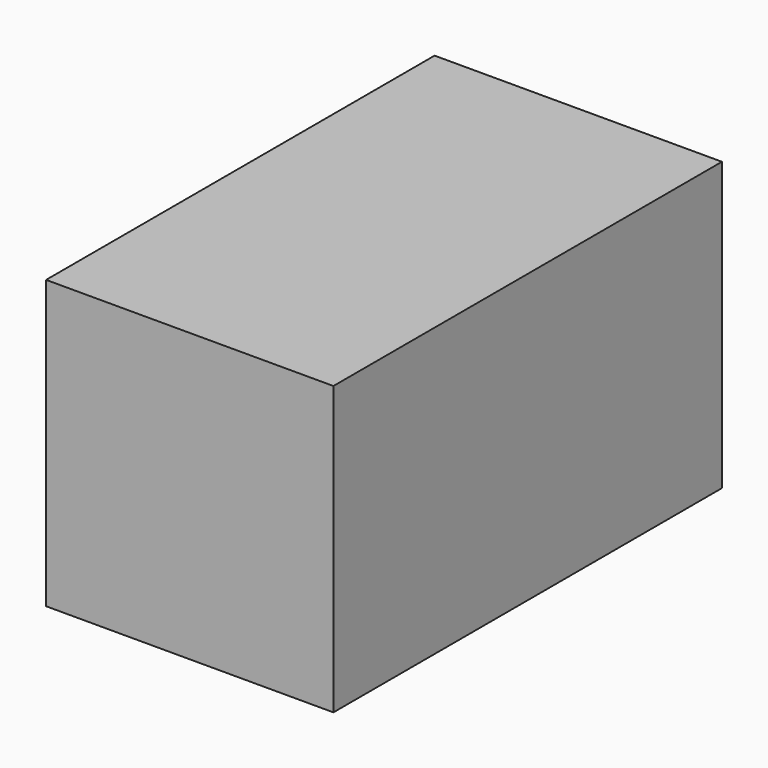
from build123d import *

# Parameters (mm, degrees)
F0_W     = 35.5
F0_H     = 35.5
F1_DEPTH = 60
F2_R     = 8
F3_DEPTH = 50
F5_DEPTH = 30


with BuildPart() as f1:
    # F0 (on Front) → F1 (new body)
    with BuildSketch(Plane.XZ):
        Rectangle(F0_W, F0_H)
    extrude(amount=F1_DEPTH)

    # F2 (on face) → F3 (cut)
    with BuildSketch(Plane(origin=(0, 0, 0), x_dir=(-1, 0, 0), z_dir=(0, 1, 0))):
        Circle(F2_R)
    extrude(amount=-F3_DEPTH, mode=Mode.SUBTRACT)

    # F4 (on face) → F5 (cut)
    with BuildSketch(Plane(origin=(0, 0, 0), x_dir=(-1, 0, 0), z_dir=(0, 1, 0))):
        with BuildLine():
            ThreePointArc((1.5, -7.858117), (0, 8), (-1.5, -7.858117))
            Line((-1.5, -7.858117), (-1.5, -17.75))
            Line((-1.5, -17.75), (1.5, -17.75))
            Line((1.5, -17.75), (1.5, -7.858117))
        make_face()
    extrude(amount=-F5_DEPTH, mode=Mode.SUBTRACT)


solid = f1.part
